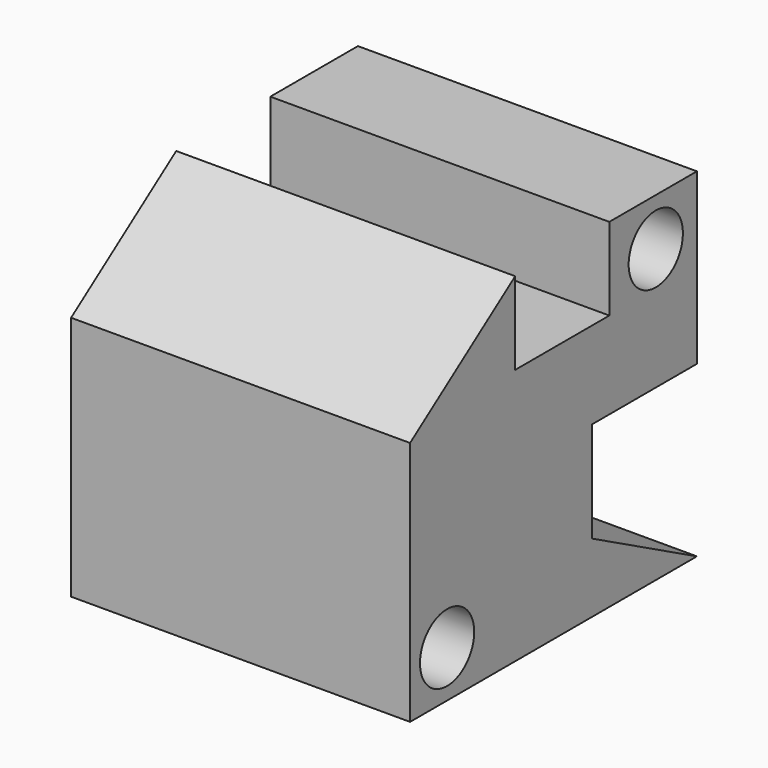
from build123d import *

# Parameters (mm, degrees)
F0_W     = 50
F0_H     = 52.8824854079
F1_DEPTH = 50
F3_DEPTH = 50
F4_R     = 5
F5_DEPTH = 50.001
F6_W     = 17.3539984971
F6_H     = 12.1642492712
F7_DEPTH = 50.001


with BuildPart() as f1:
    # F0 (on Top) → F1 (new body)
    with BuildSketch(Plane.XY):
        with Locations((5.1456615329, 7.0626717061)):
            Rectangle(F0_W, F0_H)
    extrude(amount=F1_DEPTH)

    # F2 (on face) → F3 (cut)
    with BuildSketch(Plane.YZ.offset(30.1456615329)):
        Polygon((-19.3785709979, 50), (-19.3785709979, 36.2214259803), (0, 50), align=None)
    extrude(amount=-F3_DEPTH, mode=Mode.SUBTRACT)

    # F4 (on face) → F5 (cut, through all)
    with BuildSketch(Plane.YZ.offset(30.1456615329)):
        with Locations((-12.5574155126, 6.8796549415)):
            Circle(F4_R)
        with Locations((25.9205371111, 43.0046210508)):
            Circle(F4_R)
    extrude(amount=-F5_DEPTH, mode=Mode.SUBTRACT)

    # F6 (on face) → F7 (cut, through all)
    with BuildSketch(Plane.YZ.offset(30.1456615329)):
        Polygon((33.50391441, 0), (33.50391441, 25), (14.1253471375, 25), (14.1253471375, 10.190429166), align=None)
        with Locations((8.6769992486, 43.9178753644)):
            Rectangle(F6_W, F6_H)
    extrude(amount=-F7_DEPTH, mode=Mode.SUBTRACT)


solid = f1.part
